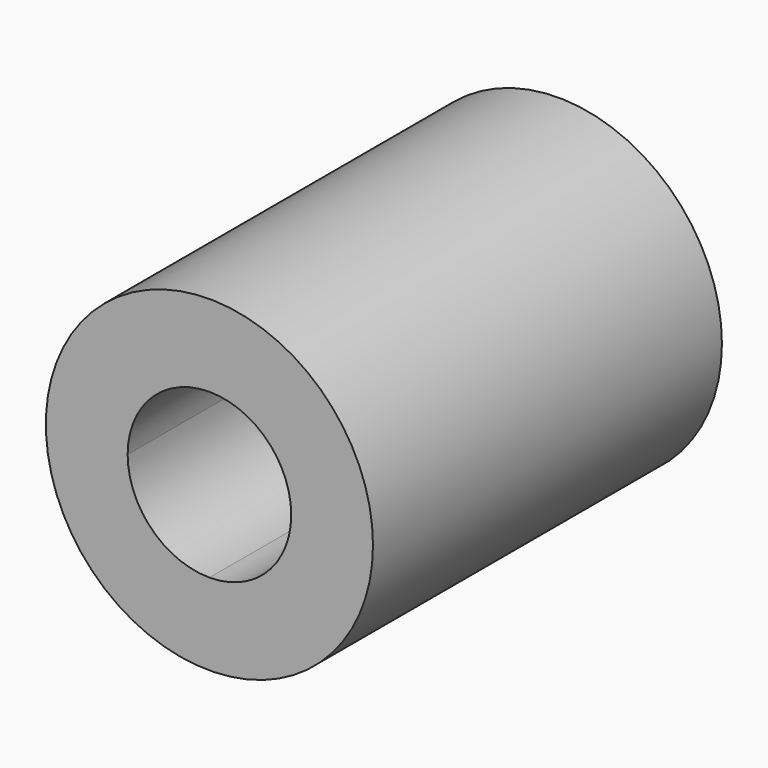
from build123d import *

# Parameters (mm, degrees)
F0_R     = 9.525
F1_DEPTH = 25.4
F3_DEPTH = 25.401


with BuildPart() as f1:
    # F0 (on Front) → F1 (new body)
    with BuildSketch(Plane.XZ):
        Circle(F0_R)
    extrude(amount=F1_DEPTH)

    # F2 (on face) → F3 (cut, through all)
    with BuildSketch(Plane(origin=(0, 0, 0), x_dir=(-1, 0, 0), z_dir=(0, 1, 0))):
        with BuildLine():
            ThreePointArc((4.7625, 0), (3.367596, 3.367596), (0, 4.7625))
            ThreePointArc((0, 4.7625), (-3.367596, 3.367596), (-4.7625, 0))
            ThreePointArc((-4.7625, 0), (-3.367596, -3.367596), (0, -4.7625))
            ThreePointArc((0, -4.7625), (3.367596, -3.367596), (4.7625, 0))
        make_face()
    extrude(amount=-F3_DEPTH, mode=Mode.SUBTRACT)


solid = f1.part
